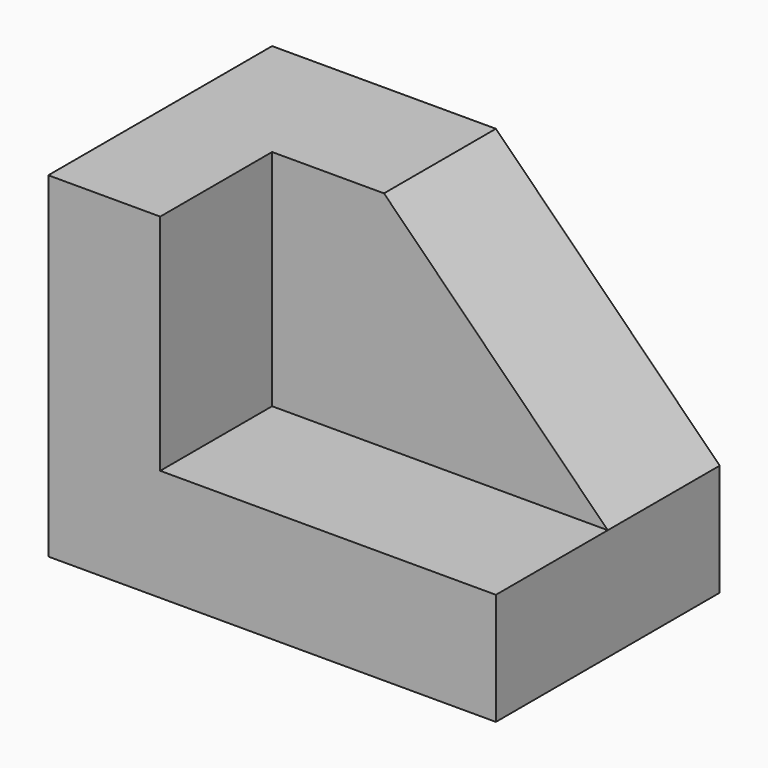
from build123d import *

# Parameters (mm, degrees)
F1_DEPTH = 63.5
F2_W     = 76.2
F2_H     = 31.75
F3_DEPTH = 50.8
F4_SIZE  = 50.8


with BuildPart() as f1:
    # F0 (on Front) → F1 (new body)
    with BuildSketch(Plane.XZ):
        Polygon((-29.114198, 20.572871), (-54.514198, 20.572871), (-54.514198, -55.627129), (47.085802, -55.627129), (47.085802, -30.227129), (-29.114198, -30.227129), align=None)
    extrude(amount=F1_DEPTH)

    # F2 (on face) → F3 (join)
    with BuildSketch(Plane.XY.offset(-30.227129)):
        with Locations((8.985802, -15.875)):
            Rectangle(F2_W, F2_H)
    extrude(amount=F3_DEPTH)

    # F4
    f4_edges = [f1.edges().sort_by_distance(p)[0] for p in [
        (47.085802, -15.875, 20.572871),
    ]]
    chamfer(f4_edges, length=F4_SIZE)


solid = f1.part
